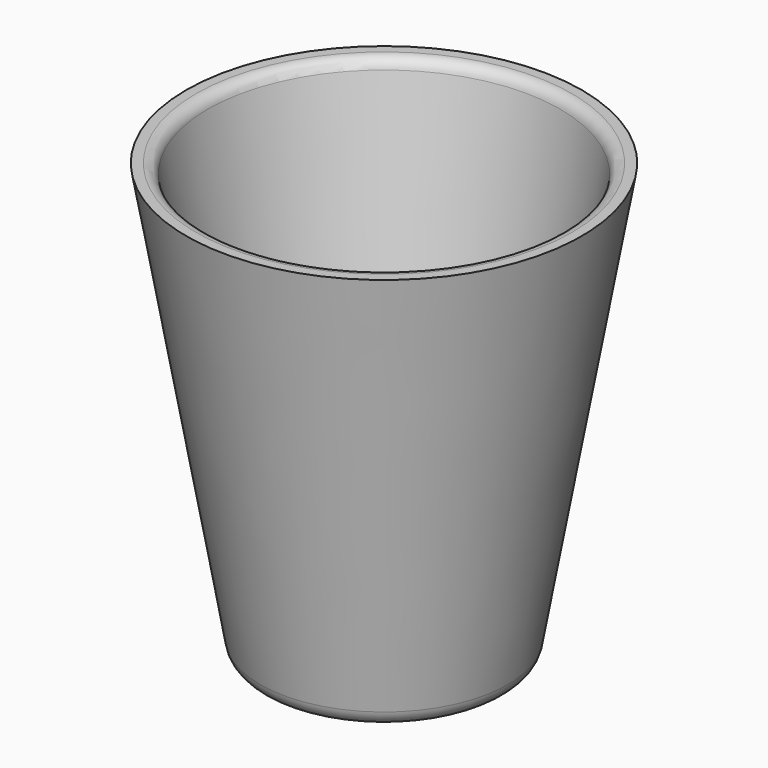
from build123d import *

# Parameters (mm, degrees)
F2_R = 5
F3_R = 5
F4_R = 3


with BuildPart() as f1:
    # F0 (on Front) → F1 (revolve)
    with BuildSketch(Plane.XZ):
        Polygon((-30.604032, 0), (0, 0), (0, 4), (-26.30934, 4), (-45, 110), (-50, 110), align=None)
    revolve(axis=Axis((0, 0, 2), (0, 0, -1)))

    # F2
    f2_edges = [f1.edges().sort_by_distance(p)[0] for p in [
        (26.30934, 0, 4),
    ]]
    fillet(f2_edges, radius=F2_R)

    # F3
    f3_edges = [f1.edges().sort_by_distance(p)[0] for p in [
        (30.604032, 0, 0),
    ]]
    fillet(f3_edges, radius=F3_R)

    # F4
    f4_edges = [f1.edges().sort_by_distance(p)[0] for p in [
        (45, 0, 110),
    ]]
    fillet(f4_edges, radius=F4_R)


solid = f1.part
